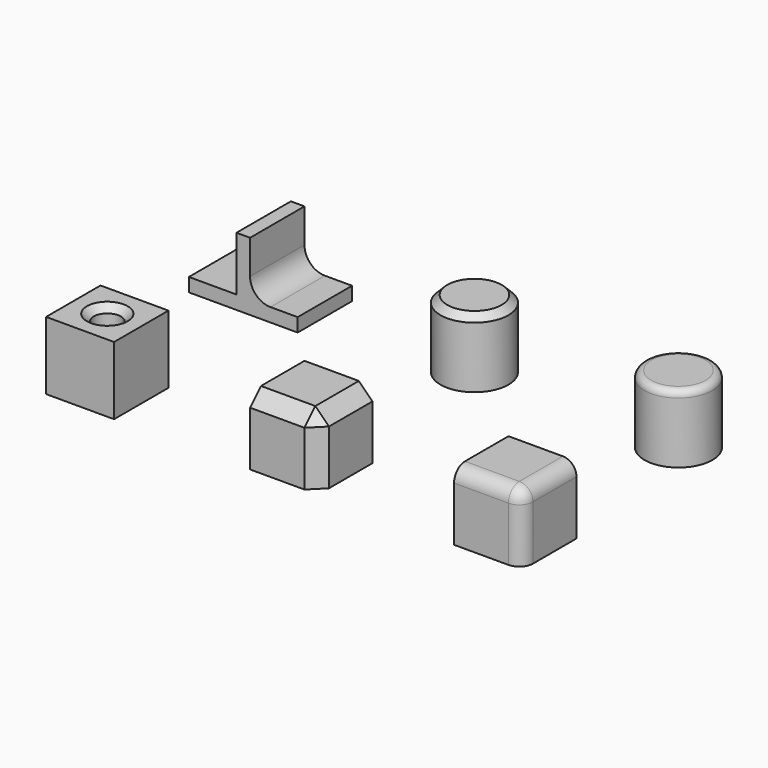
from build123d import *

# Parameters (mm, degrees)
BOX002_W          = 10
BOX002_H          = 10
BOX002_DEPTH      = 10
FILLET_R          = 2
BOX001_W          = 10
BOX001_H          = 10
BOX001_DEPTH      = 10
CHAMFER_SIZE      = 2
CYLINDER_R        = 2
CYLINDER_DEPTH    = 10
BOX_W             = 10
BOX_H             = 10
BOX_DEPTH         = 10
CHAMFER001_SIZE   = 1
CYLINDER001_R     = 5
CYLINDER001_DEPTH = 10
FILLET001_R       = 1
CYLINDER002_R     = 5
CYLINDER002_DEPTH = 10
CHAMFER002_SIZE   = 1
BOX004_W          = 2
BOX004_H          = 10
BOX004_DEPTH      = 10
BOX003_W          = 16
BOX003_H          = 10
BOX003_DEPTH      = 2
FILLET002_R       = 3


with BuildPart() as fillet_body:
    # Box002 → Box002 (new body)
    with BuildSketch(Plane(origin=(60, 0, 0), x_dir=(1, 0, 0), z_dir=(0, 0, 1))):
        with Locations((5, 5)):
            Rectangle(BOX002_W, BOX002_H)
    extrude(amount=BOX002_DEPTH)

    # Fillet
    fillet_edges = [fillet_body.edges().sort_by_distance(p)[0] for p in [
        (70, 0, 5),
        (70, 5, 10),
        (65, 0, 10),
    ]]
    fillet(fillet_edges, radius=FILLET_R)


with BuildPart() as chamfer_body:
    # Box001 → Box001 (new body)
    with BuildSketch(Plane(origin=(30, 0, 0), x_dir=(1, 0, 0), z_dir=(0, 0, 1))):
        with Locations((5, 5)):
            Rectangle(BOX001_W, BOX001_H)
    extrude(amount=BOX001_DEPTH)

    # Chamfer
    chamfer_edges = [chamfer_body.edges().sort_by_distance(p)[0] for p in [
        (40, 0, 5),
        (40, 5, 10),
        (35, 0, 10),
    ]]
    chamfer(chamfer_edges, length=CHAMFER_SIZE)


with BuildPart() as cylinder:
    # Cylinder → Cylinder (new body)
    with BuildSketch(Plane(origin=(5, 5, 0), x_dir=(1, 0, 0), z_dir=(0, 0, 1))):
        Circle(CYLINDER_R)
    extrude(amount=CYLINDER_DEPTH)


with BuildPart() as chamfer001:
    # Box → Box (new body)
    with BuildSketch(Plane.XY):
        with Locations((5, 5)):
            Rectangle(BOX_W, BOX_H)
    extrude(amount=BOX_DEPTH)

    # Cut: cut Cylinder
    add(cylinder.part, mode=Mode.SUBTRACT)

    # Chamfer001
    chamfer001_edges = [chamfer001.edges().sort_by_distance(p)[0] for p in [
        (3, 5, 10),
    ]]
    chamfer(chamfer001_edges, length=CHAMFER001_SIZE)


with BuildPart() as fillet001:
    # Cylinder001 → Cylinder001 (new body)
    with BuildSketch(Plane(origin=(65, 35, 0), x_dir=(1, 0, 0), z_dir=(0, 0, 1))):
        Circle(CYLINDER001_R)
    extrude(amount=CYLINDER001_DEPTH)

    # Fillet001
    fillet001_edges = [fillet001.edges().sort_by_distance(p)[0] for p in [
        (60, 35, 10),
    ]]
    fillet(fillet001_edges, radius=FILLET001_R)


with BuildPart() as chamfer002:
    # Cylinder002 → Cylinder002 (new body)
    with BuildSketch(Plane(origin=(35, 35, 0), x_dir=(1, 0, 0), z_dir=(0, 0, 1))):
        Circle(CYLINDER002_R)
    extrude(amount=CYLINDER002_DEPTH)

    # Chamfer002
    chamfer002_edges = [chamfer002.edges().sort_by_distance(p)[0] for p in [
        (30, 35, 10),
    ]]
    chamfer(chamfer002_edges, length=CHAMFER002_SIZE)


with BuildPart() as cube004:
    # Box004 → Box004 (new body)
    with BuildSketch(Plane(origin=(4, 30, 0), x_dir=(1, 0, 0), z_dir=(0, 0, 1))):
        with Locations((1, 5)):
            Rectangle(BOX004_W, BOX004_H)
    extrude(amount=BOX004_DEPTH)


with BuildPart() as fillet002:
    # Box003 → Box003 (new body)
    with BuildSketch(Plane(origin=(-3, 30, 0), x_dir=(1, 0, 0), z_dir=(0, 0, 1))):
        with Locations((8, 5)):
            Rectangle(BOX003_W, BOX003_H)
    extrude(amount=BOX003_DEPTH)

    # Fusion: union Cube004
    add(cube004.part)

    # Fillet002
    fillet002_edges = [fillet002.edges().sort_by_distance(p)[0] for p in [
        (6, 35, 2),
    ]]
    fillet(fillet002_edges, radius=FILLET002_R)


solid = Compound([fillet_body.part, chamfer_body.part, chamfer001.part, fillet001.part, chamfer002.part, fillet002.part])
